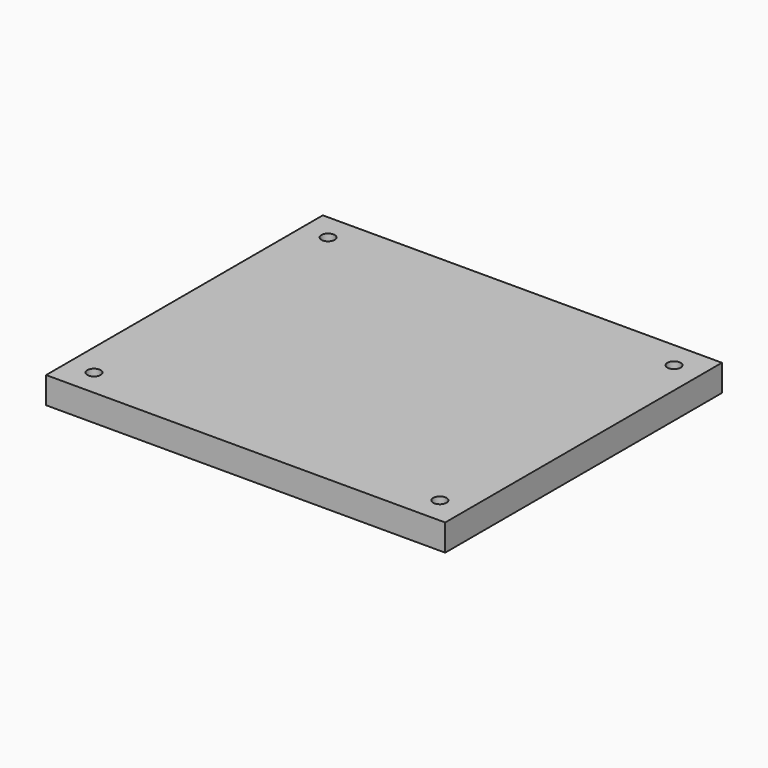
from build123d import *

# Parameters (mm, degrees)
SKETCH_W         = 150
SKETCH_H         = 130
SKETCH_W_2       = 111
SKETCH_H_2       = 111
PAD_DEPTH        = 1.5
SKETCH001_W      = 150
SKETCH001_H      = 130
PAD001_DEPTH     = 8.5
HOLE_D           = 5
HOLE_DEPTH       = 25
HOLE_CSINK_D     = 10
HOLE_CSINK_ANGLE = 90


with BuildPart() as part:
    # Sketch → Pad (new body)
    with BuildSketch(Plane.XY):
        Rectangle(SKETCH_W, SKETCH_H)
        Rectangle(SKETCH_W_2, SKETCH_H_2, mode=Mode.SUBTRACT)
    extrude(amount=PAD_DEPTH)

    # Sketch001 (on Face10 of Pad) → Pad001 (join)
    with BuildSketch(Plane.XY.offset(1.5)):
        Rectangle(SKETCH001_W, SKETCH001_H)
    extrude(amount=PAD001_DEPTH)

    # Hole
    with Locations(Plane(origin=(0, 0, 0), x_dir=(1, 0, 0), z_dir=(0, 0, -1))):
        with Locations((-65, 55), (65, 55), (65, -55), (-65, -55)):
            CounterSinkHole(HOLE_D / 2, HOLE_CSINK_D / 2, depth=HOLE_DEPTH, counter_sink_angle=HOLE_CSINK_ANGLE)


solid = part.part
